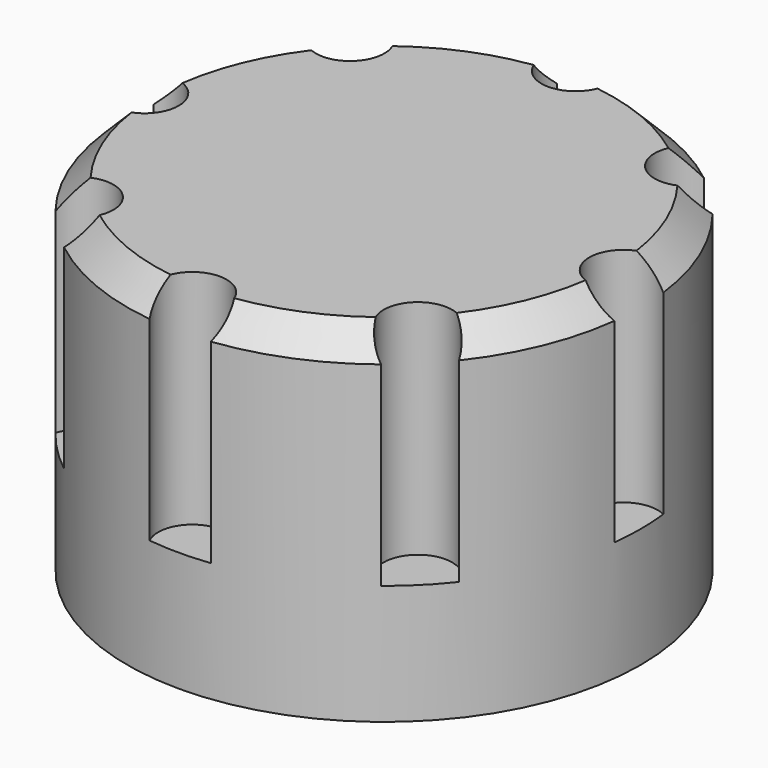
from build123d import *

# Parameters (mm, degrees)
CYLINDER001_R     = 2
CYLINDER001_DEPTH = 30
ARRAY_COUNT       = 8
CYLINDER_R        = 15
CYLINDER_DEPTH    = 20
CHAMFER_SIZE      = 1.6


with BuildPart() as array:
    # Cylinder001 → Cylinder001 (new body)
    with BuildSketch(Plane(origin=(14, 0, 0), x_dir=(1, 0, 0), z_dir=(0, 0, 1))):
        Circle(CYLINDER001_R)
    extrude(amount=CYLINDER001_DEPTH)

    # Array: Array ×8 about axis
    array_axis = Axis((0, 0, 0), (0, 0, 1))


with BuildPart() as array_1:
    add(array.part)
    for i in range(1, ARRAY_COUNT):
        add(array.part.rotate(array_axis, i * 360 / ARRAY_COUNT))


with BuildPart() as array_2:
    # Array placement: moved
    add(array_1.part.moved(Location((0, 0, 7))))


with BuildPart() as cut:
    # Cylinder → Cylinder (new body)
    with BuildSketch(Plane.XY):
        Circle(CYLINDER_R)
    extrude(amount=CYLINDER_DEPTH)

    # Chamfer
    chamfer_edges = [cut.edges().sort_by_distance(p)[0] for p in [
        (-15, 0, 20),
    ]]
    chamfer(chamfer_edges, length=CHAMFER_SIZE)

    # Cut: cut Array
    add(array_2.part, mode=Mode.SUBTRACT)


solid = cut.part
